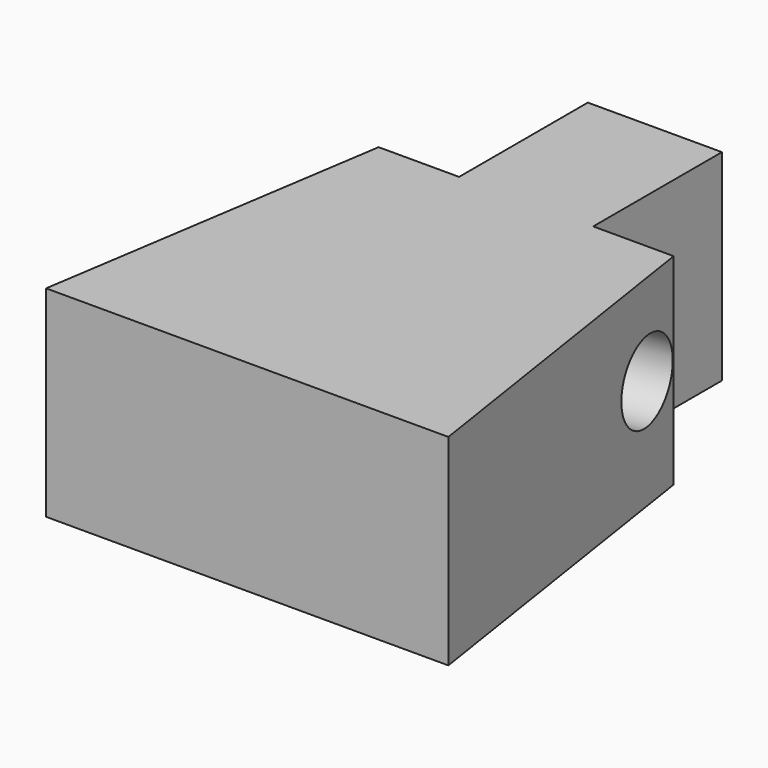
from build123d import *

# Parameters (mm, degrees)
F0_W     = 5
F0_H     = 6
F1_DEPTH = 7.5
F2_R     = 1.5
F3_DEPTH = 4
F4_R     = 1.5
F5_DEPTH = 4


with BuildPart() as f1:
    # F0 (on Top) → F1 (new body)
    with BuildSketch(Plane.XY):
        with Locations((7.5, 16)):
            Rectangle(F0_W, F0_H)
        Polygon((2, 13), (0, 0), (15, 0), (13, 13), (10, 13), (5, 13), align=None)
    extrude(amount=F1_DEPTH)

    # F2 (on face) → F3 (cut)
    with BuildSketch(Plane(origin=(14.653179, 2.254335, 0), x_dir=(-0.152057, 0.988372, 0), z_dir=(0.988372, 0.152057, 0))):
        with Locations((9.319803, 4.095583)):
            Circle(F2_R)
    extrude(amount=-F3_DEPTH, mode=Mode.SUBTRACT)

    # F4 (on face) → F5 (cut)
    with BuildSketch(Plane(origin=(0, 0, 0), x_dir=(-0.152057, -0.988372, 0), z_dir=(-0.988372, 0.152057, 0))):
        with Locations((-11.632966, 3.637236)):
            Circle(F4_R)
    extrude(amount=-F5_DEPTH, mode=Mode.SUBTRACT)


solid = f1.part
